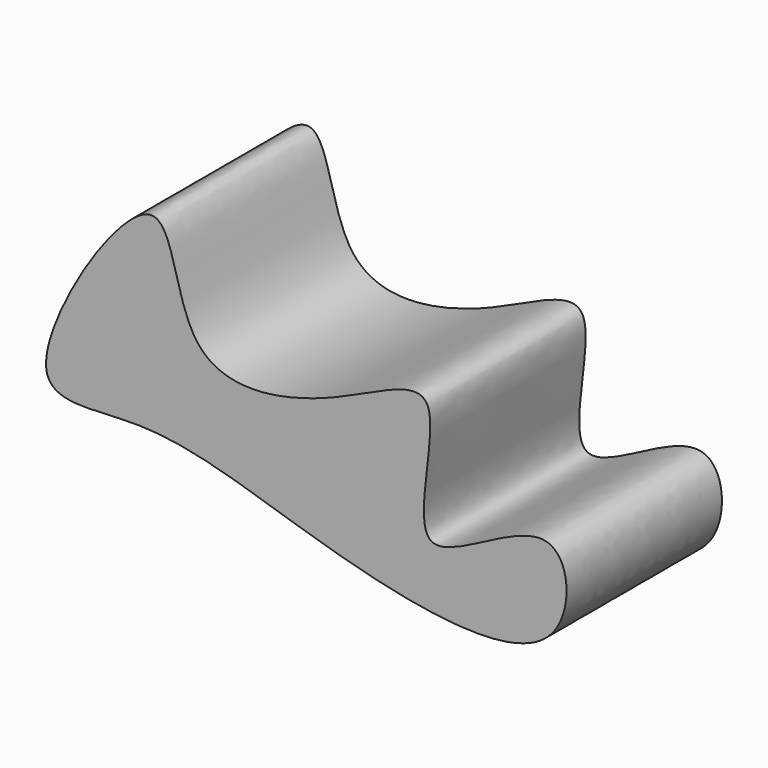
from build123d import *

# Parameters (mm, degrees)
F1_DEPTH = 50


with BuildPart() as f1:
    # F0 (on Front) → F1 (new body)
    with BuildSketch(Plane.XZ):
        with BuildLine():
            add(Edge.make_bspline(
                [(0, 35.4801751673), (11.0389511429, 40.070928764), (31.9280510667, 53.6541254496), (12.4851058467, -7.0915938629), (59.2294252471, 33.9929396006), (61.9940710207, -13.7459817458), (-4.6313436751, -1.0063400894), (-45.4905791304, 16.6659618037), (-90.2908792391, 5.854601482), (-41.4557988301, 84.883582655), (-42.3541854323, 24.3613729797), (-13.5144491778, 29.85993957), (0, 35.4801751673)],
                knots=[0, 0, 0, 0, 0.0835974545, 0.1776884871, 0.272903277, 0.3499979387, 0.4771379443, 0.6015293535, 0.6849058433, 0.8074612344, 0.8976557161, 1, 1, 1, 1], degree=3))
        make_face()
    extrude(amount=F1_DEPTH)


solid = f1.part
